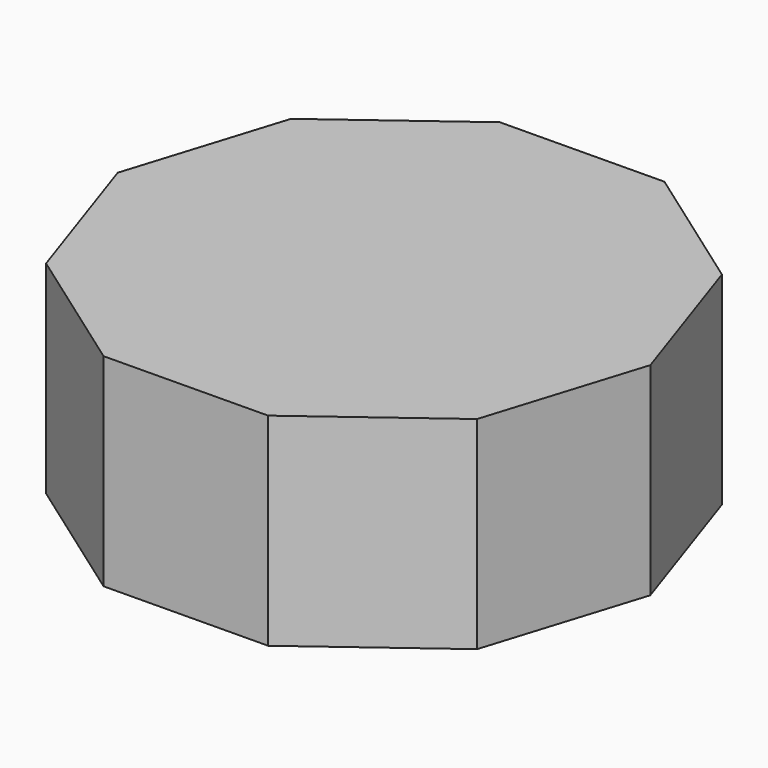
from build123d import *

# Parameters (mm, degrees)
F1_DEPTH = 18.5674


with BuildPart() as f1:
    # F0 (on Top) → F1 (new body)
    with BuildSketch(Plane.XY):
        Polygon((7.728108, -22.929351), (19.729705, -14.007767), (24.195226, 0.264309), (19.418992, 14.435427), (7.225363, 23.092703), (-7.728108, 22.929351), (-19.729705, 14.007767), (-24.195226, -0.264309), (-19.418992, -14.435427), (-7.225363, -23.092703), align=None)
    extrude(amount=-F1_DEPTH)


solid = f1.part
